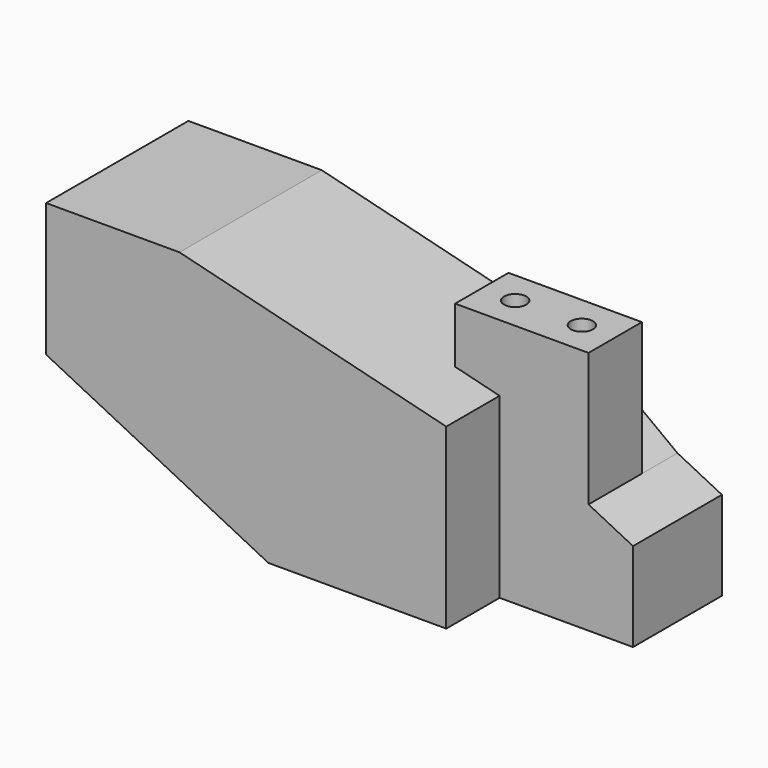
from build123d import *

# Parameters (mm, degrees)
F0_W      = 114.3
F0_H      = 69.85
F1_DEPTH  = 50.8
F3_DEPTH  = 76.2
F4_DEPTH  = 19.05
F6_DEPTH  = 12.7
F8_DEPTH  = 76.2
F10_DEPTH = 38.1
F12_DEPTH = 76.2
F14_DEPTH = 12.7
F15_R     = 3.175
F16_DEPTH = 76.2


with BuildPart() as f1:
    # F0 (on Front) → F1 (new body)
    with BuildSketch(Plane.XZ):
        with Locations((57.15, 34.925)):
            Rectangle(F0_W, F0_H)
    extrude(amount=-F1_DEPTH)

    # F2 (on face) → F3 (cut)
    with BuildSketch(Plane.XZ):
        Polygon((0, 0), (63.5, 0), (0, 31.75), align=None)
    extrude(amount=-F3_DEPTH, mode=Mode.SUBTRACT)

    # F2 (on face) → F4 (cut)
    with BuildSketch(Plane.XZ):
        Polygon((38.1, 69.85), (114.3, 50.8), (114.3, 69.85), align=None)
    extrude(amount=-F4_DEPTH, mode=Mode.SUBTRACT)

    # F5 (on face) → F6 (cut)
    with BuildSketch(Plane(origin=(0, 50.8, 0), x_dir=(-1, 0, 0), z_dir=(0, 1, 0))):
        Polygon((-114.3, 50.8), (-38.1, 69.85), (-114.3, 69.85), align=None)
    extrude(amount=-F6_DEPTH, mode=Mode.SUBTRACT)

    # F7 (on face) → F8 (cut)
    with BuildSketch(Plane.XZ.offset(-19.05)):
        Polygon((101.6, 53.975), (101.6, 69.85), (38.1, 69.85), align=None)
    extrude(amount=-F8_DEPTH, mode=Mode.SUBTRACT)

    # F9 (on face) → F10 (join)
    with BuildSketch(Plane.YZ.offset(114.3)):
        Polygon((38.1, 69.85), (19.05, 69.85), (19.05, 50.8), (19.05, 0), (50.8, 0), (50.8, 50.8), (38.1, 50.8), align=None)
    extrude(amount=F10_DEPTH)

    # F11 (on face) → F12 (cut)
    with BuildSketch(Plane.XZ.offset(-19.05)):
        Polygon((139.7, 69.85), (139.7, 31.75), (152.4, 25.4), (152.4, 69.85), align=None)
    extrude(amount=-F12_DEPTH, mode=Mode.SUBTRACT)

    # F13 (on face) → F14 (cut)
    with BuildSketch(Plane(origin=(0, 50.8, 0), x_dir=(-1, 0, 0), z_dir=(0, 1, 0))):
        Polygon((-139.7, 31.75), (-114.3, 50.8), (-139.7, 50.8), align=None)
    extrude(amount=-F14_DEPTH, mode=Mode.SUBTRACT)

    # F15 (on face) → F16 (cut)
    with BuildSketch(Plane.XY.offset(69.85)):
        with Locations((111.125, 28.575)):
            Circle(F15_R)
        with Locations((130.175, 28.575)):
            Circle(F15_R)
    extrude(amount=-F16_DEPTH, mode=Mode.SUBTRACT)


solid = f1.part
